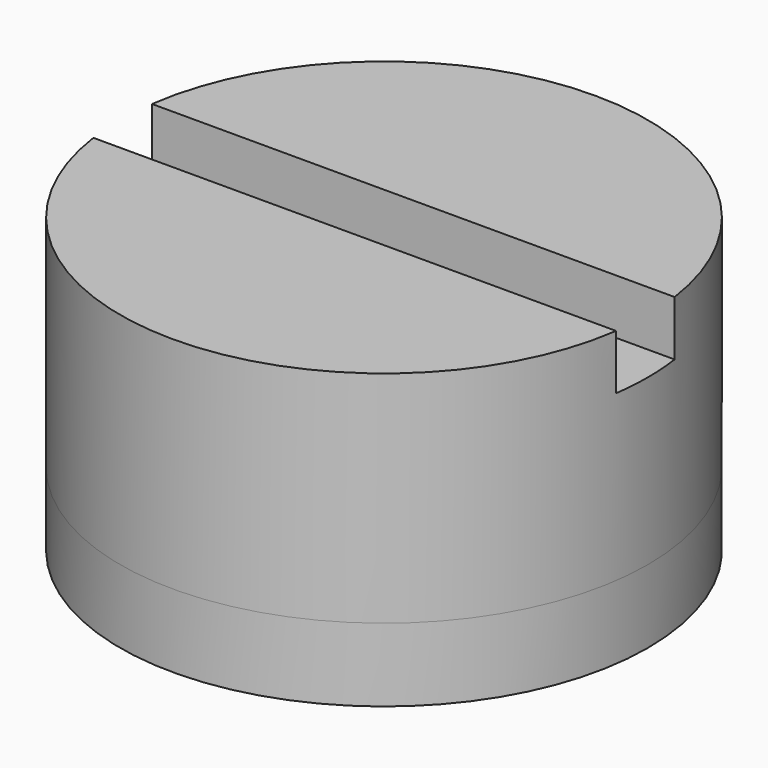
from build123d import *

# Parameters (mm, degrees)
SKETCH_R        = 7.2
SKETCH_R_2      = 2.3
PAD_DEPTH       = 2
SKETCH001_R     = 7.2
PAD001_DEPTH    = 6
SKETCH002_W     = 8
SKETCH002_H     = 8
POCKET_DEPTH    = 3
SKETCH003_W     = 26.953154
SKETCH003_H     = 2
POCKET001_DEPTH = 3.5


with BuildPart() as part:
    # Sketch → Pad (new body)
    with BuildSketch(Plane.XY):
        Circle(SKETCH_R)
        Circle(SKETCH_R_2, mode=Mode.SUBTRACT)
    extrude(amount=-PAD_DEPTH)

    # Sketch001 → Pad001 (join)
    with BuildSketch(Plane.XY):
        Circle(SKETCH001_R)
    extrude(amount=PAD001_DEPTH)

    # Sketch002 → Pocket (cut)
    with BuildSketch(Plane.XY):
        Rectangle(SKETCH002_W, SKETCH002_H)
    extrude(amount=POCKET_DEPTH, mode=Mode.SUBTRACT)

    # Sketch003 (on DatumPlane) → Pocket001 (cut, symmetric)
    with BuildSketch(Plane.XY.offset(8)):
        Rectangle(SKETCH003_W, SKETCH003_H)
    extrude(amount=POCKET001_DEPTH, both=True, mode=Mode.SUBTRACT)


solid = part.part
